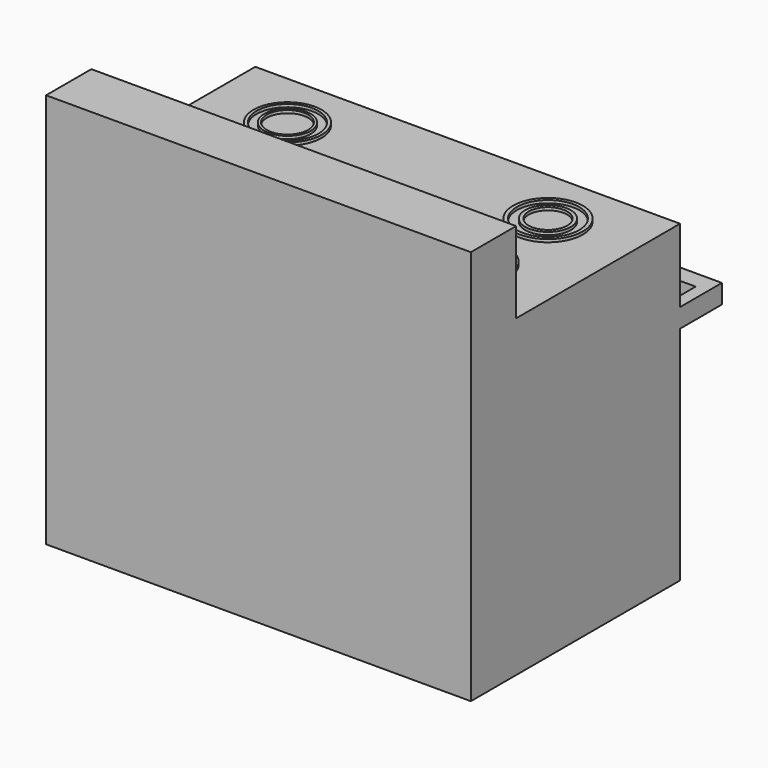
from build123d import *

# Parameters (mm, degrees)
F0_W      = 150.1006782055
F0_H      = 110.9899356961
F1_DEPTH  = 92.4
F2_W      = 150.1006782055
F2_H      = 19.9922849774
F3_DEPTH  = 28.7
F4_W      = 150.1006782055
F4_H      = 6.7310594022
F5_DEPTH  = 18.5
F6_W      = 141.5597423911
F6_H      = 12.2390463948
F7_DEPTH  = 9.7
F8_W      = 132.9917162657
F8_H      = 56.4299700782
F9_DEPTH  = 2.5
F10_R     = 6.077615329
F10_R_2   = 6.1309658988
F10_R_3   = 6.1687846494
F10_R_4   = 6.0083305598
F11_DEPTH = 5
F12_R     = 12.3227416523
F12_R_2   = 11.0367187647
F12_R_3   = 12.1926494199
F12_R_4   = 11.2992603937
F12_R_5   = 12.1037249709
F12_R_6   = 11.2032484042
F12_R_7   = 12.0227070788
F12_R_8   = 10.9242891597
F12_R_9   = 8.3209245573
F12_R_10  = 7.3212092862
F12_R_11  = 8.1775044527
F12_R_12  = 7.3141816182
F12_R_13  = 8.0443237324
F12_R_14  = 6.796531977
F12_R_15  = 7.6510346435
F12_R_16  = 6.7661892343
F13_DEPTH = 1


with BuildPart() as f1:
    # F0 (on Front) → F1 (new body)
    with BuildSketch(Plane.XZ):
        Rectangle(F0_W, F0_H)
    extrude(amount=F1_DEPTH)

    # F2 (on face) → F3 (join)
    with BuildSketch(Plane.XY.offset(55.4949678481)):
        with Locations((0, -82.4038575113)):
            Rectangle(F2_W, F2_H)
    extrude(amount=F3_DEPTH)

    # F4 (on face) → F5 (join)
    with BuildSketch(Plane(origin=(0, 0, 0), x_dir=(-1, 0, 0), z_dir=(0, 1, 0))):
        with Locations((0, 26.1929742992)):
            Rectangle(F4_W, F4_H)
    extrude(amount=F5_DEPTH)

    # F6 (on face) → F7 (cut)
    with BuildSketch(Plane.XY.offset(29.5585040003)):
        with Locations((3.7253e-06, 6.1195231974)):
            Rectangle(F6_W, F6_H)
    extrude(amount=-F7_DEPTH, mode=Mode.SUBTRACT)

    # F8 (on face) → F9 (cut)
    with BuildSketch(Plane(origin=(0, 0, 0), x_dir=(-1, 0, 0), z_dir=(0, 1, 0))):
        with Locations((0.6100535393, -13.5516175069)):
            Rectangle(F8_W, F8_H)
    extrude(amount=-F9_DEPTH, mode=Mode.SUBTRACT)

    # F10 (on face) → F11 (join)
    with BuildSketch(Plane(origin=(0, 0, 0), x_dir=(-1, 0, 0), z_dir=(0, 1, 0))):
        with Locations((-24.7071757913, 41.8107584119)):
            Circle(F10_R)
        with Locations((-59.7852654755, 41.8107584119)):
            Circle(F10_R_2)
        with Locations((24.4021452963, 41.8107584119)):
            Circle(F10_R_3)
        with Locations((57.0400170982, 41.8107584119)):
            Circle(F10_R_4)
    extrude(amount=F11_DEPTH)

    # F12 (on face) → F13 (join)
    with BuildSketch(Plane.XY.offset(55.4949678481)):
        with Locations((45.8669885993, -21.8506734818)):
            Circle(F12_R)
        with Locations((45.8669885993, -21.8506734818)):
            Circle(F12_R_2, mode=Mode.SUBTRACT)
        with Locations((-46.1877398193, -54.5669868588)):
            Circle(F12_R_3)
        with Locations((-46.1877398193, -54.5669868588)):
            Circle(F12_R_4, mode=Mode.SUBTRACT)
        with Locations((46.187736094, -54.5669868588)):
            Circle(F12_R_5)
        with Locations((46.187736094, -54.5669868588)):
            Circle(F12_R_6, mode=Mode.SUBTRACT)
        with Locations((-46.1877398193, -21.8506734818)):
            Circle(F12_R_7)
        with Locations((-46.1877398193, -21.8506734818)):
            Circle(F12_R_8, mode=Mode.SUBTRACT)
        with Locations((-46.1877398193, -54.5669868588)):
            Circle(F12_R_9)
        with Locations((-46.1877398193, -54.5669868588)):
            Circle(F12_R_10, mode=Mode.SUBTRACT)
        with Locations((-46.1877398193, -21.8506734818)):
            Circle(F12_R_11)
        with Locations((-46.1877398193, -21.8506734818)):
            Circle(F12_R_12, mode=Mode.SUBTRACT)
        with Locations((45.8669885993, -21.8506734818)):
            Circle(F12_R_13)
        with Locations((45.8669885993, -21.8506734818)):
            Circle(F12_R_14, mode=Mode.SUBTRACT)
        with Locations((46.187736094, -54.5669868588)):
            Circle(F12_R_15)
        with Locations((46.187736094, -54.5669868588)):
            Circle(F12_R_16, mode=Mode.SUBTRACT)
    extrude(amount=F13_DEPTH)


solid = f1.part
